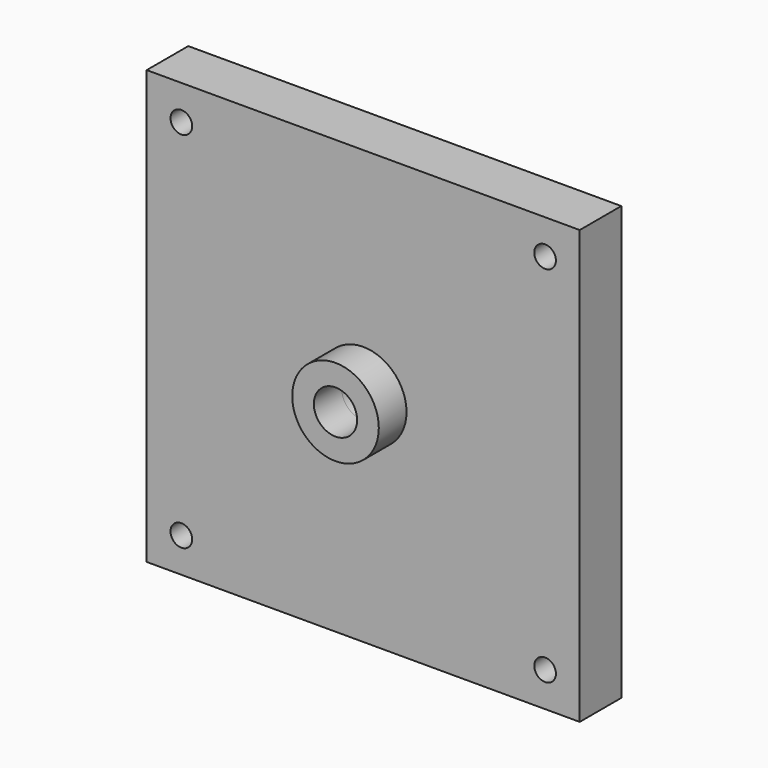
from build123d import *

# Parameters (mm, degrees)
F0_W     = 31.75
F0_H     = 31.75
F1_DEPTH = 1.905
F2_R     = 14.478
F3_DEPTH = 0.889
F5_D     = 1.5875
F6_R     = 1.5875
F7_DEPTH = 3.811
F8_R     = 3.175
F8_R_2   = 1.5875
F9_DEPTH = 2.54


with BuildPart() as f1:
    # F0 (on Front) → F1 (new body, symmetric)
    with BuildSketch(Plane.XZ):
        Rectangle(F0_W, F0_H)
    extrude(amount=F1_DEPTH, both=True)

    # F2 (on face) → F3 (cut)
    with BuildSketch(Plane(origin=(0, 1.905, 0), x_dir=(-1, 0, 0), z_dir=(0, 1, 0))):
        Circle(F2_R)
    extrude(amount=-F3_DEPTH, mode=Mode.SUBTRACT)

    # F5 (through all)
    with Locations(Plane.XZ.offset(1.905)):
        with Locations((-13.335, 13.335), (13.335, 13.335), (13.335, -13.335), (-13.335, -13.335)):
            Hole(F5_D / 2)

    # F6 (on face) → F7 (cut, through all)
    with BuildSketch(Plane.XZ.offset(1.905)):
        Circle(F6_R)
    extrude(amount=-F7_DEPTH, mode=Mode.SUBTRACT)

    # F8 (on face) → F9 (join)
    with BuildSketch(Plane.XZ.offset(1.905)):
        Circle(F8_R)
        Circle(F8_R_2, mode=Mode.SUBTRACT)
    extrude(amount=F9_DEPTH)


solid = f1.part
